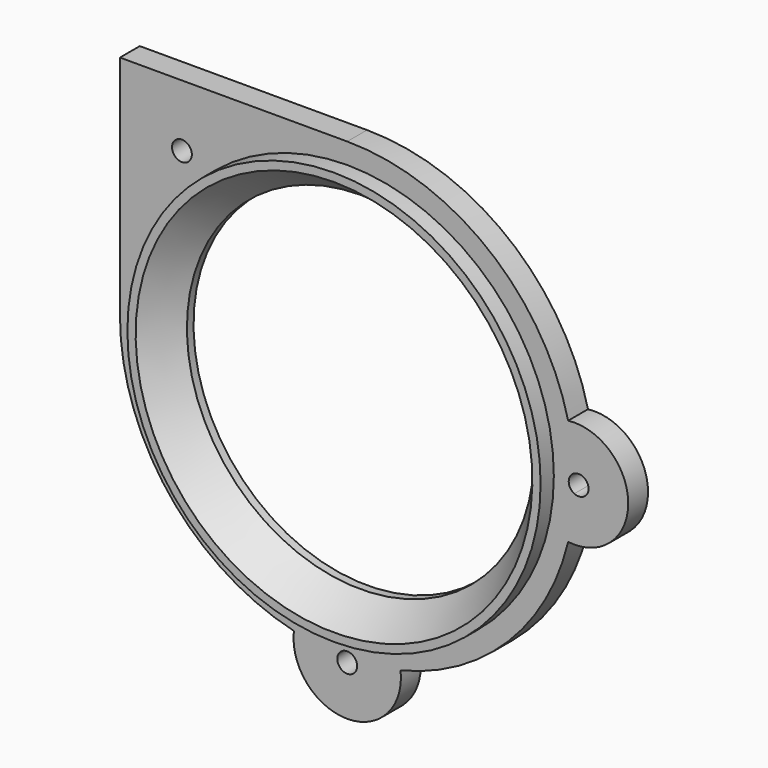
from build123d import *

# Parameters (mm, degrees)
F3_R     = 25
F3_R_2   = 1.2
F4_DEPTH = 3


with BuildPart() as f1:
    # F0 (on Right) → F1 (revolve)
    with BuildSketch(Plane.YZ):
        Polygon((2, 25), (-3, 25), (-3, 24), (1, 21), (2, 21), align=None)
    revolve(axis=Axis((0, 1.602868, 0), (0, -1, 0)))

    # F3 (on offset) → F4 (join)
    with BuildSketch(Plane.XZ.offset(1)):
        with BuildLine():
            ThreePointArc((26.731818, 6.454448), (17.011065, 21.607259), (0, 27.5))
            Line((0, 27.5), (-27.5, 27.5))
            Line((-27.5, 27.5), (-27.5, 0))
            ThreePointArc((-27.5, 0), (-21.607259, -17.011065), (-6.454448, -26.731818))
            ThreePointArc((-6.454448, -26.731818), (-3.786128, -27.238121), (-1.080879, -27.47875))
            ThreePointArc((-1.080879, -27.47875), (0, -26.8), (1.080879, -27.47875))
            ThreePointArc((1.080879, -27.47875), (3.786128, -27.238121), (6.454448, -26.731818))
            ThreePointArc((6.454448, -26.731818), (19.445436, -19.445436), (26.731818, -6.454448))
            ThreePointArc((26.731818, -6.454448), (27.238121, -3.786128), (27.47875, -1.080879))
            ThreePointArc((27.47875, -1.080879), (26.8, 0), (27.47875, 1.080879))
            ThreePointArc((27.47875, 1.080879), (27.238121, 3.786128), (26.731818, 6.454448))
        make_face()
        Circle(F3_R, mode=Mode.SUBTRACT)
        with Locations((-20, 20)):
            Circle(F3_R_2, mode=Mode.SUBTRACT)
        with BuildLine():
            ThreePointArc((26.731818, -6.454448), (34, 0), (26.731818, 6.454448))
            ThreePointArc((26.731818, 6.454448), (27.238121, 3.786128), (27.47875, 1.080879))
            ThreePointArc((27.47875, 1.080879), (28.638161, 1.016243), (29.2, 0))
            ThreePointArc((29.2, 0), (28.638161, -1.016243), (27.47875, -1.080879))
            ThreePointArc((27.47875, -1.080879), (27.238121, -3.786128), (26.731818, -6.454448))
        make_face()
        with BuildLine():
            ThreePointArc((-1.080879, -27.47875), (-3.786128, -27.238121), (-6.454448, -26.731818))
            ThreePointArc((-6.454448, -26.731818), (0, -34), (6.454448, -26.731818))
            ThreePointArc((6.454448, -26.731818), (3.786128, -27.238121), (1.080879, -27.47875))
            ThreePointArc((1.080879, -27.47875), (1.169841, -27.732656), (1.2, -28))
            ThreePointArc((1.2, -28), (-0.267344, -29.169841), (-1.080879, -27.47875))
        make_face()
    extrude(amount=-F4_DEPTH)


solid = f1.part
